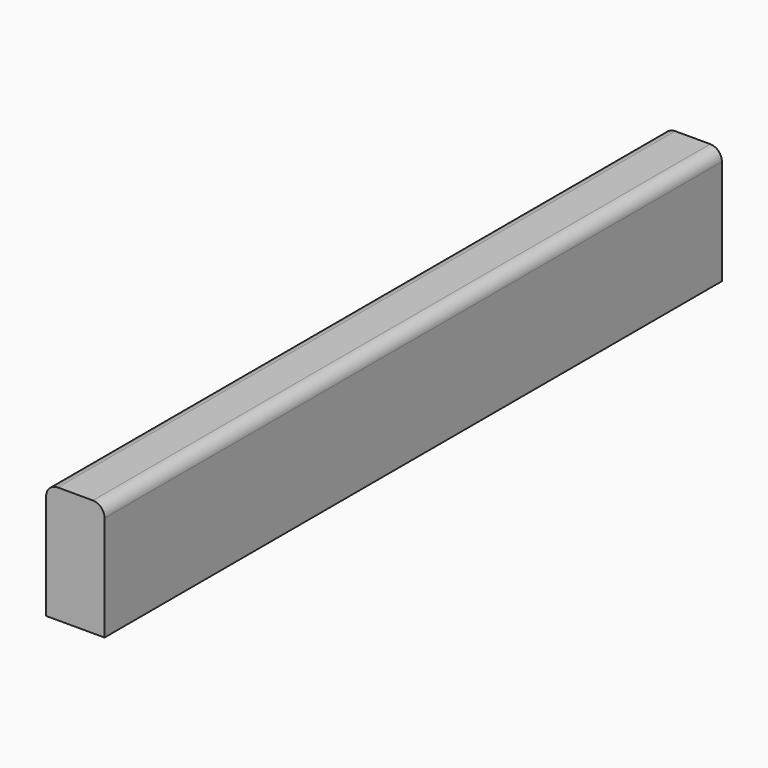
from build123d import *

# Parameters (mm, degrees)
F1_DEPTH = 330


with BuildPart() as f1:
    # F0 (on Front) → F1 (new body)
    with BuildSketch(Plane.XZ):
        with BuildLine():
            Line((0, 45), (0, 0))
            Line((0, 0), (25, 0))
            Line((25, 0), (25, 45))
            ThreePointArc((25, 45), (23.535534, 48.535534), (20, 50))
            Line((20, 50), (5, 50))
            ThreePointArc((5, 50), (1.464466, 48.535534), (0, 45))
        make_face()
    extrude(amount=F1_DEPTH)


solid = f1.part
